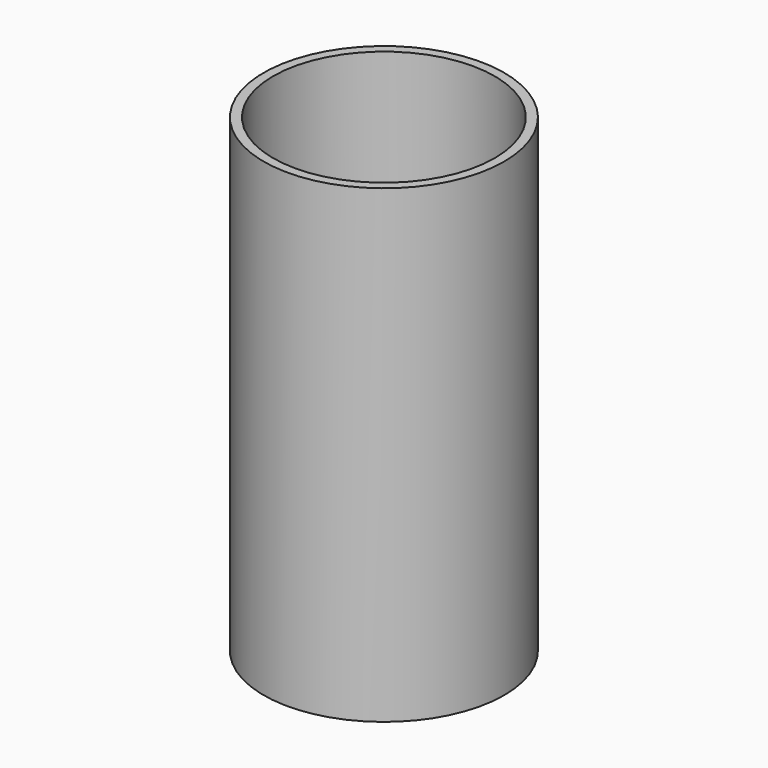
from build123d import *

# Parameters (mm, degrees)
F0_R     = 32.513452
F1_DEPTH = 63.5
F2_T     = -2.54


with BuildPart() as f1:
    # F0 (on Top) → F1 (new body, symmetric)
    with BuildSketch(Plane.XY):
        Circle(F0_R)
    extrude(amount=F1_DEPTH, both=True)

    # F2
    f2_openings = [f1.faces().sort_by_distance(p)[0] for p in [
        (0, 0, 63.5),
    ]]
    offset(amount=F2_T, openings=f2_openings)


solid = f1.part
